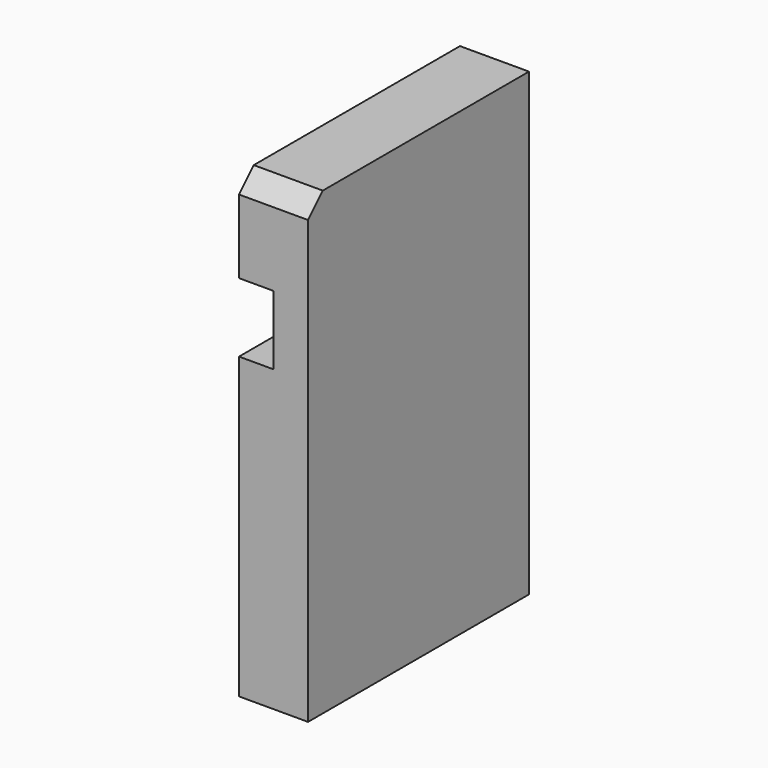
from build123d import *

# Parameters (mm, degrees)
F1_DEPTH = 76.2
F2_SIZE  = 5.08


with BuildPart() as f1:
    # F0 (on Front) → F1 (new body)
    with BuildSketch(Plane.XZ):
        Polygon((-19.05, 0), (0, 0), (0, 127), (-19.05, 127), (-19.05, 101.6), (-9.525, 101.6), (-9.525, 82.55), (-19.05, 82.55), align=None)
    extrude(amount=F1_DEPTH)

    # F2
    f2_edges = [f1.edges().sort_by_distance(p)[0] for p in [
        (-9.525, -76.2, 127),
    ]]
    chamfer(f2_edges, length=F2_SIZE)


solid = f1.part
